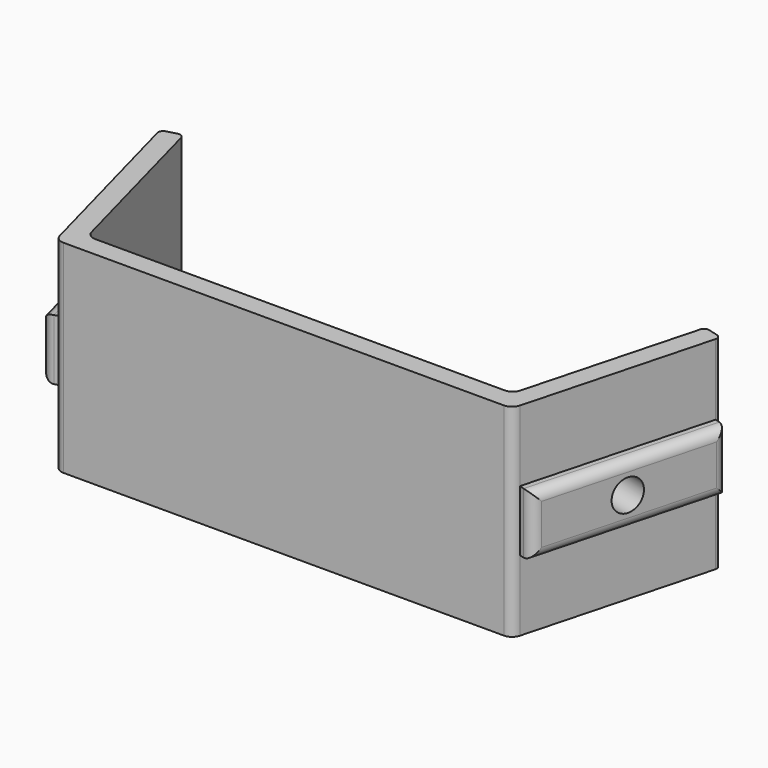
from build123d import *

# Parameters (mm, degrees)
F1_DEPTH = 20
F2_W     = 18.732673
F2_H     = 6
F3_DEPTH = 1.5
F4_W     = 18.732673
F4_H     = 6
F5_DEPTH = 1.5
F6_R     = 1.55
F7_DEPTH = 12.5
F8_R     = 1.55
F9_DEPTH = 12.5
F10_R    = 1


with BuildPart() as f1:
    # F0 (on Top) → F1 (new body)
    with BuildSketch(Plane.XY):
        with BuildLine():
            ThreePointArc((-0.198599, 0.741181), (0.158566, 0.206647), (0.767327, 0))
            Line((0.767327, 0), (44.232673, 0))
            ThreePointArc((44.232673, 0), (44.841434, 0.206647), (45.198599, 0.741181))
            Line((45.198599, 0.741181), (50.046971, 18.835554))
            ThreePointArc((50.046971, 18.835554), (49.997021, 19.214963), (49.693418, 19.447926))
            Line((49.693418, 19.447926), (48.727492, 19.706745))
            ThreePointArc((48.727492, 19.706745), (48.348083, 19.656795), (48.11512, 19.353192))
            Line((48.11512, 19.353192), (43.663945, 2.741181))
            ThreePointArc((43.663945, 2.741181), (43.30678, 2.206647), (42.698019, 2))
            Line((42.698019, 2), (2.301981, 2))
            ThreePointArc((2.301981, 2), (1.69322, 2.206647), (1.336055, 2.741181))
            Line((1.336055, 2.741181), (-3.11512, 19.353192))
            ThreePointArc((-3.11512, 19.353192), (-3.348083, 19.656795), (-3.727492, 19.706745))
            Line((-3.727492, 19.706745), (-4.693418, 19.447926))
            ThreePointArc((-4.693418, 19.447926), (-4.997021, 19.214963), (-5.046971, 18.835554))
            Line((-5.046971, 18.835554), (-0.198599, 0.741181))
        make_face()
    extrude(amount=F1_DEPTH)

    # F2 (on face) → F3 (join)
    with BuildSketch(Plane(origin=(41.985572, -11.25, 0), x_dir=(0.258819, 0.965926, 0), z_dir=(0.965926, -0.258819, 0))):
        with Locations((21.78052, 10)):
            Rectangle(F2_W, F2_H)
    extrude(amount=F3_DEPTH)

    # F4 (on face) → F5 (join)
    with BuildSketch(Plane(origin=(0, 0, 0), x_dir=(0.258819, -0.965926, 0), z_dir=(-0.965926, -0.258819, 0))):
        with Locations((-10.133664, 10)):
            Rectangle(F4_W, F4_H)
    extrude(amount=F5_DEPTH)

    # F6 (on face) → F7 (cut, symmetric)
    with BuildSketch(Plane(origin=(0, 0, 0), x_dir=(0.258819, -0.965926, 0), z_dir=(-0.965926, -0.258819, 0))):
        with Locations((-10, 10)):
            Circle(F6_R)
    extrude(amount=F7_DEPTH, both=True, mode=Mode.SUBTRACT)

    # F8 (on face) → F9 (cut, symmetric)
    with BuildSketch(Plane(origin=(41.985572, -11.25, 0), x_dir=(0.258819, 0.965926, 0), z_dir=(0.965926, -0.258819, 0))):
        with Locations((21.646857, 10)):
            Circle(F8_R)
    extrude(amount=F9_DEPTH, both=True, mode=Mode.SUBTRACT)

    # F10
    f10_edges = [f1.edges().sort_by_distance(p)[0] for p in [
        (-1.647488, 0.352952, 10),
        (-4.071674, 9.400139, 7),
        (-4.071674, 9.400139, 13),
        (-6.49586, 18.447325, 10),
        (51.49586, 18.447325, 10),
        (49.071674, 9.400139, 7),
        (49.071674, 9.400139, 13),
        (46.647488, 0.352952, 10),
    ]]
    fillet(f10_edges, radius=F10_R)


solid = f1.part
